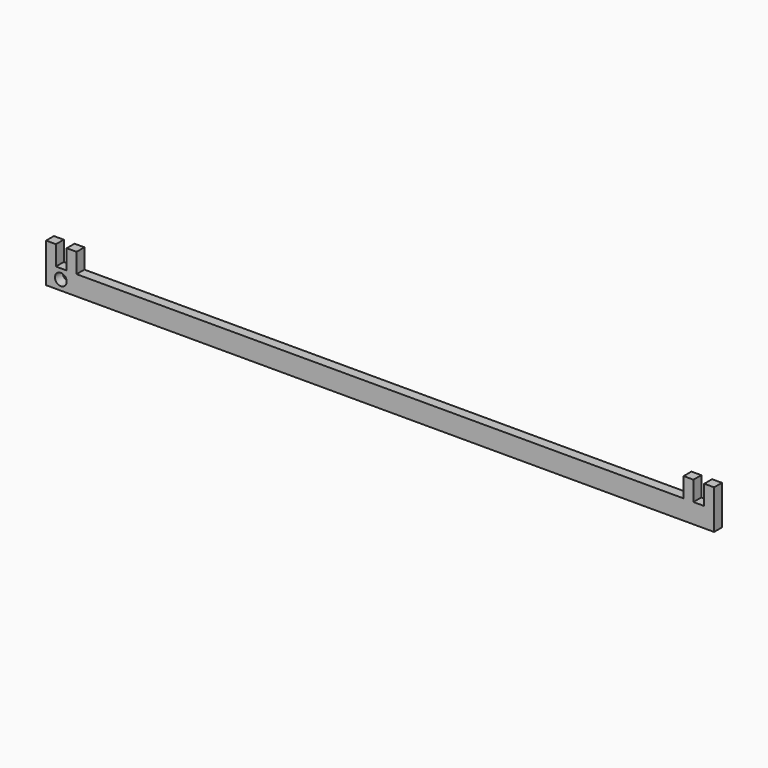
from build123d import *

# Parameters (mm, degrees)
F0_R     = 3
F1_DEPTH = 5


with BuildPart() as f1:
    # F0 (on Front) → F1 (new body)
    with BuildSketch(Plane.XZ):
        Polygon((-170, -10), (170, -10), (170, 10), (165, 10), (165, 0), (159.5, 0), (159.5, 10), (154.5, 10), (154.5, 0), (-154.5, 0), (-154.5, 10), (-159.5, 10), (-159.5, 0), (-165, 0), (-165, 10), (-170, 10), align=None)
        with Locations((-162.5, -5)):
            Circle(F0_R, mode=Mode.SUBTRACT)
    extrude(amount=F1_DEPTH)


solid = f1.part
